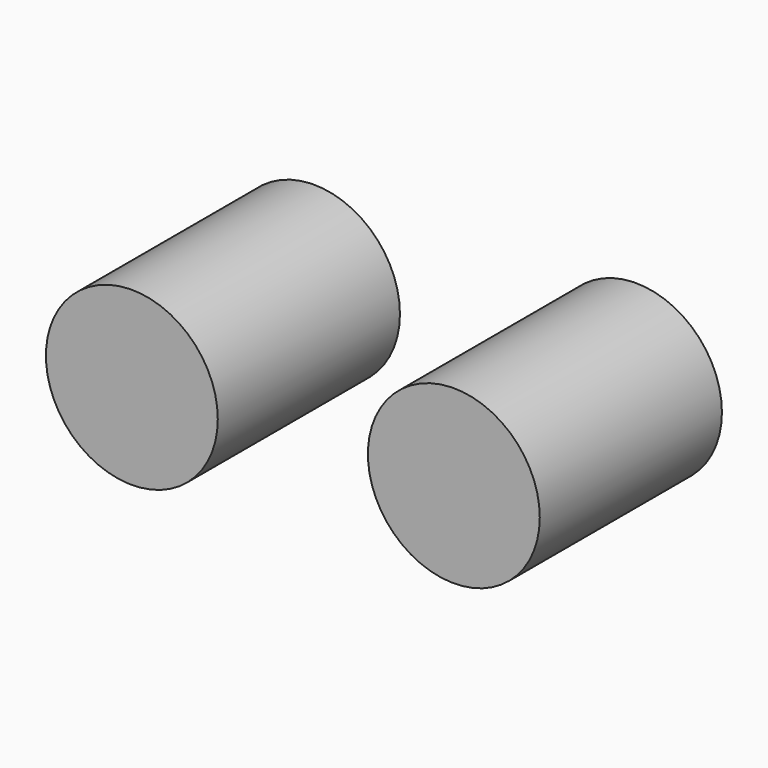
from build123d import *

# Parameters (mm, degrees)
F0_R     = 9.58665
F1_DEPTH = 25.4


with BuildPart() as f1:
    # F0 (on Front) → F1 (new body)
    with BuildSketch(Plane.XZ):
        with Locations((12.712811, 10.997592)):
            Circle(F0_R)
        with Locations((48.631549, 13.015262)):
            Circle(F0_R)
    extrude(amount=-F1_DEPTH)


solid = f1.part
